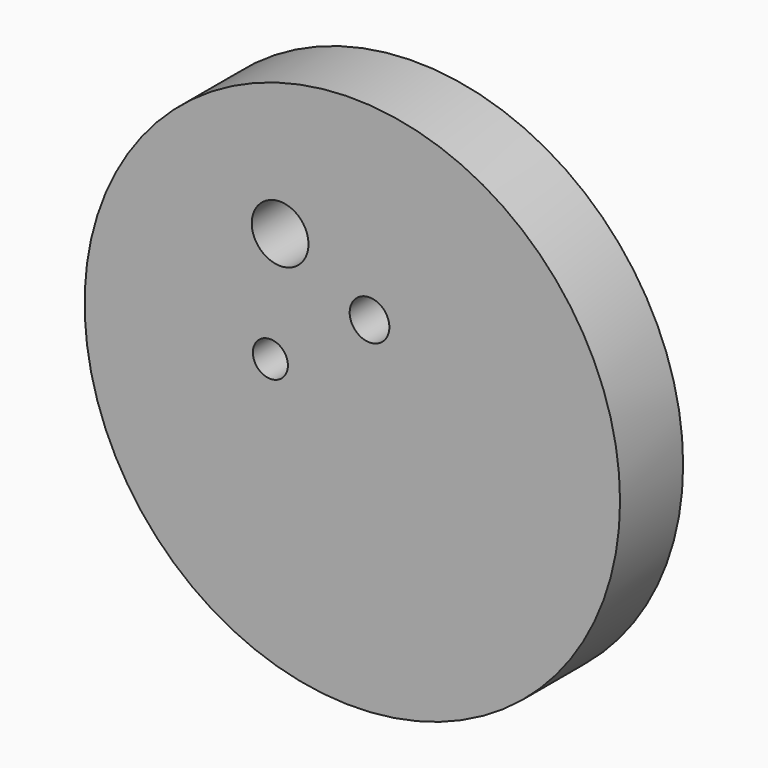
from build123d import *

# Parameters (mm, degrees)
F0_R     = 86.253089
F1_DEPTH = 25.4
F2_R     = 5.638223
F2_R_2   = 9.130879
F2_R_3   = 6.395531
F3_DEPTH = 25.401


with BuildPart() as f1:
    # F0 (on Front) → F1 (new body)
    with BuildSketch(Plane.XZ):
        Circle(F0_R)
    extrude(amount=F1_DEPTH)

    # F2 (on face) → F3 (cut, through all)
    with BuildSketch(Plane.XZ.offset(25.4)):
        with Locations((-26.403425, 3.652012)):
            Circle(F2_R)
        with Locations((-23.266278, 40.20704)):
            Circle(F2_R_2)
        with Locations((5.538446, 25.136232)):
            Circle(F2_R_3)
    extrude(amount=-F3_DEPTH, mode=Mode.SUBTRACT)


solid = f1.part
